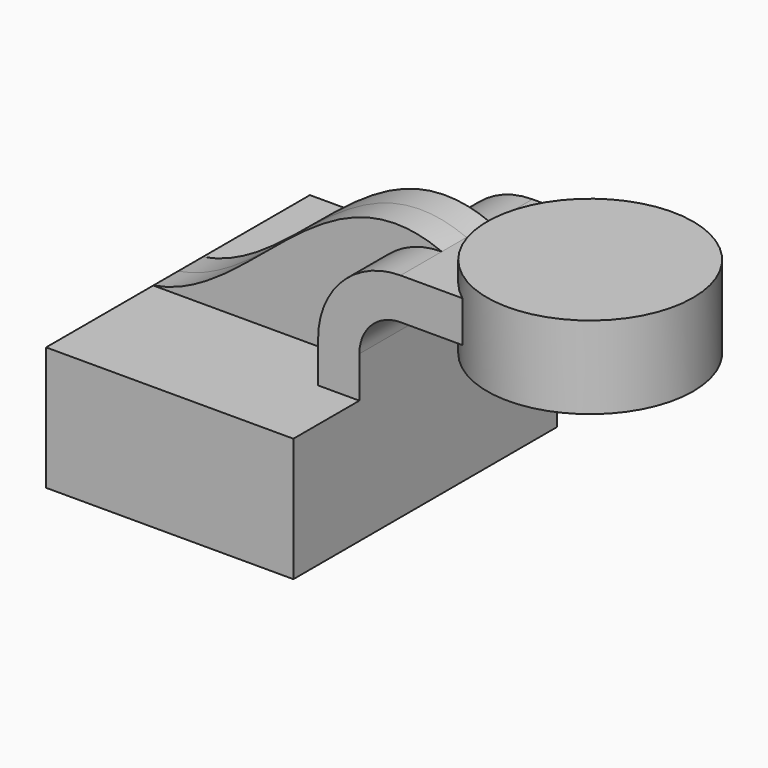
from build123d import *

# Parameters (mm, degrees)
F1_DEPTH = 50.8
F0_W     = 31.75
F0_H     = 12.7
F2_DEPTH = 25.4
F3_DEPTH = 9.525


with BuildPart() as f1:
    # F0 (on Front) → F1 (new body, symmetric)
    with BuildSketch(Plane.XZ):
        Polygon((-38.1, -19.05), (38.1, -19.05), (38.1, 19.05), (25.4, 19.05), (-38.1, 19.05), align=None)
    extrude(amount=F1_DEPTH, both=True)

    # F0 (on Front) → F2 (join, symmetric)
    with BuildSketch(Plane.XZ):
        with BuildLine():
            Line((25.4, 19.05), (38.1, 19.05))
            Line((38.1, 19.05), (38.1, 31.75))
            ThreePointArc((38.1, 31.75), (41.819744, 40.730256), (50.8, 44.45))
            Line((50.8, 44.45), (57.15, 44.45))
            Line((57.15, 44.45), (57.15, 57.15))
            Line((57.15, 57.15), (50.8, 57.15))
            ThreePointArc((50.8, 57.15), (32.839488, 49.710512), (25.4, 31.75))
            Line((25.4, 31.75), (25.4, 19.05))
        make_face()
        with Locations((73.025, 50.8)):
            Rectangle(F0_W, F0_H)
    extrude(amount=F2_DEPTH, both=True)

    # F0 (on Front) → F3 (join, symmetric)
    with BuildSketch(Plane.XZ):
        with BuildLine():
            add(Edge.make_bspline(
                [(-38.1, 19.05), (-6.955927, 24.22536), (14.066069, 72.396874), (50.8, 57.15)],
                knots=[0, 0, 0, 0, 96.720318, 96.720318, 96.720318, 96.720318], degree=3))
            Line((-38.1, 19.05), (25.4, 19.05))
            Line((25.4, 19.05), (25.4, 31.75))
            ThreePointArc((25.4, 31.75), (32.839488, 49.710512), (50.8, 57.15))
        make_face()
    extrude(amount=F3_DEPTH, both=True)

    # F0 (on Front) → F4 (revolve)
    with BuildSketch(Plane.XZ):
        Polygon((88.9, 63.5), (88.9, 57.15), (88.9, 44.45), (88.9, 38.1), (120.65, 38.1), (120.65, 63.5), align=None)
    revolve(axis=Axis((88.9, 0, 50.8), (0, 0, -1)))


solid = f1.part
